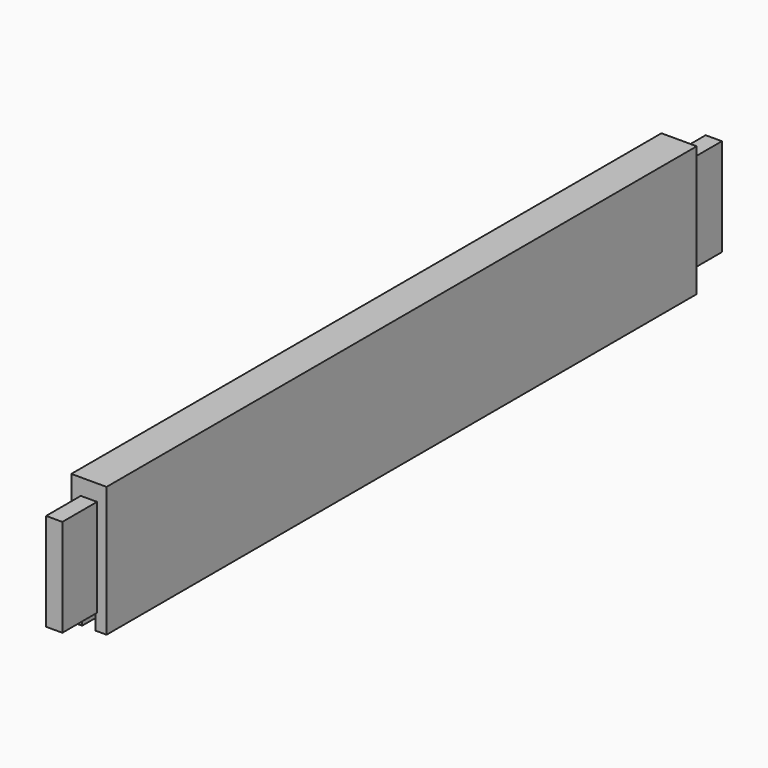
from build123d import *

# Parameters (mm, degrees)
F0_W     = 431.8
F0_H     = 76.2
F1_DEPTH = 10.31875
F2_W     = 9.525
F2_H     = 57.15
F3_DEPTH = 25.4
F4_W     = 9.525
F4_H     = 57.15
F5_DEPTH = 25.4
F6_W     = 7.9375
F6_H     = 431.8
F7_DEPTH = 9.525


with BuildPart() as f1:
    # F0 (on Right) → F1 (new body, symmetric)
    with BuildSketch(Plane.YZ):
        Rectangle(F0_W, F0_H)
    extrude(amount=F1_DEPTH, both=True)

    # F2 (on face) → F3 (join)
    with BuildSketch(Plane.XZ.offset(215.9)):
        Rectangle(F2_W, F2_H)
    extrude(amount=F3_DEPTH)

    # F4 (on face) → F5 (join)
    with BuildSketch(Plane(origin=(0, 215.9, 0), x_dir=(-1, 0, 0), z_dir=(0, 1, 0))):
        Rectangle(F4_W, F4_H)
    extrude(amount=F5_DEPTH)

    # F6 (on face) → F7 (cut)
    with BuildSketch(Plane(origin=(0, 0, -38.1), x_dir=(1, 0, 0), z_dir=(0, 0, -1))):
        Rectangle(F6_W, F6_H)
    extrude(amount=-F7_DEPTH, mode=Mode.SUBTRACT)


solid = f1.part
